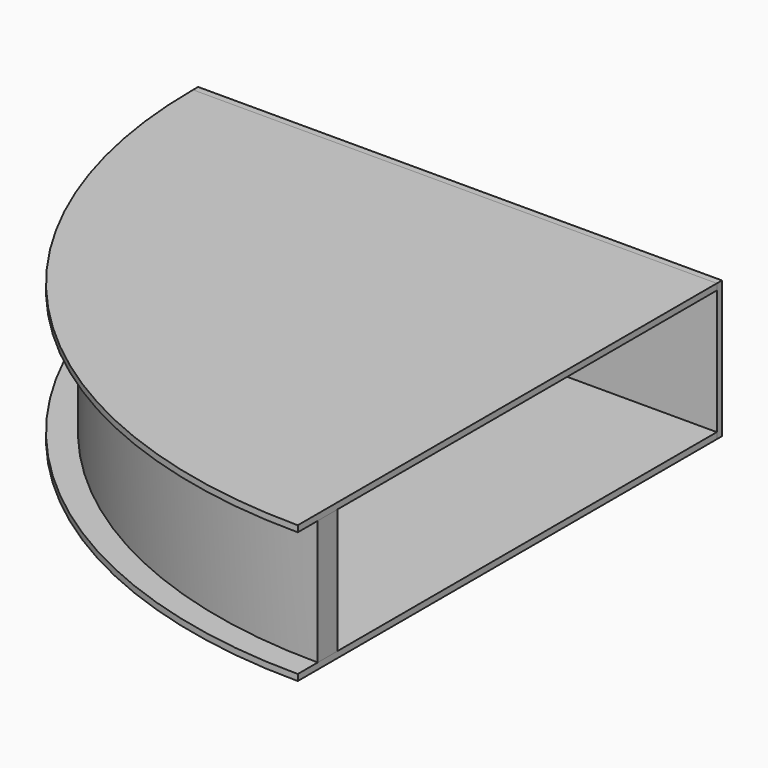
from build123d import *

# Parameters (mm, degrees)
F1_DEPTH  = 100
F4_DEPTH  = 5
F7_DEPTH  = 5
F9_W      = 420
F9_H      = 110
F10_DEPTH = 5.1


with BuildPart() as f1:
    # F0 (on Top) → F1 (new body)
    with BuildSketch(Plane.XY):
        with BuildLine():
            ThreePointArc((0, -380), (-268.7005768509, -268.7005768509), (-380, 0))
            Line((-380, 0), (-400, 0))
            ThreePointArc((-400, 0), (-282.8427124746, -282.8427124746), (0, -400))
            Line((0, -400), (0, -380))
        make_face()
    extrude(amount=F1_DEPTH)


with BuildPart() as f4:
    # F3 (on offset) → F4 (new body)
    with BuildSketch(Plane(origin=(0, 0, 0), x_dir=(1, 0, 0), z_dir=(0, 0, -1))):
        with BuildLine():
            Line((-400, 0), (0, 0))
            Line((0, 0), (0, 400))
            ThreePointArc((0, 400), (-282.8427124746, 282.8427124746), (-400, 0))
        make_face()
        with BuildLine():
            ThreePointArc((-400, 0), (-282.8427124746, 282.8427124746), (0, 400))
            Line((0, 400), (0, 420))
            ThreePointArc((0, 420), (-296.9848480984, 296.9848480984), (-420, 0))
            Line((-420, 0), (-400, 0))
        make_face()
    extrude(amount=F4_DEPTH)


with BuildPart() as f7:
    # F6 (on offset) → F7 (new body)
    with BuildSketch(Plane.XY.offset(100)):
        with BuildLine():
            Line((0, -420), (0, 0))
            Line((0, 0), (-420, 0))
            ThreePointArc((-420, 0), (-296.9848480984, -296.9848480984), (0, -420))
        make_face()
    extrude(amount=F7_DEPTH)


with BuildPart() as f10:
    # F9 (on offset) → F10 (new body)
    with BuildSketch(Plane(origin=(0, 0, 0), x_dir=(-1, 0, 0), z_dir=(0, 1, 0))):
        with Locations((210, 50)):
            Rectangle(F9_W, F9_H)
    extrude(amount=F10_DEPTH)


solid = Compound([f1.part, f4.part, f7.part, f10.part])
